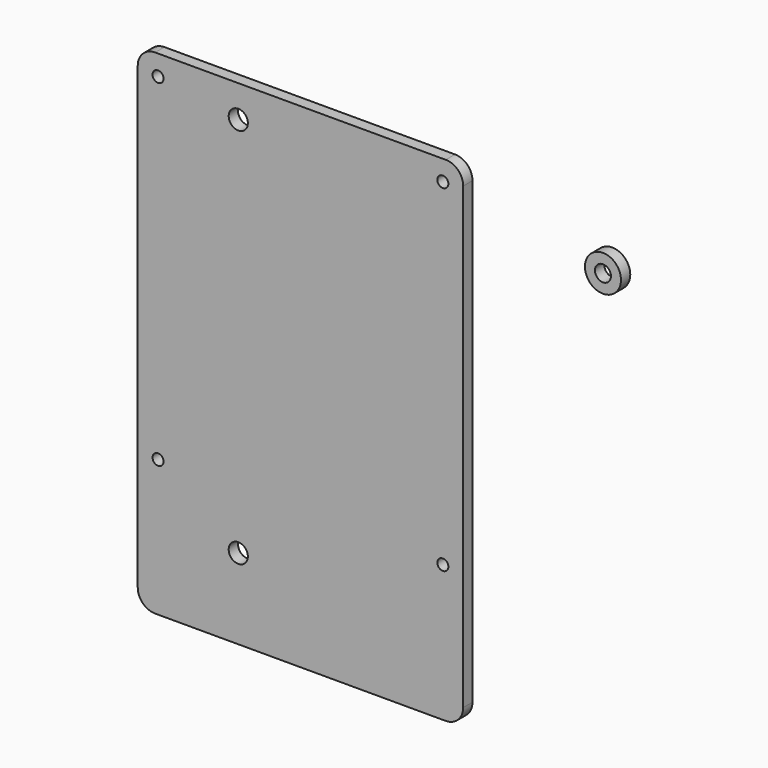
from build123d import *

# Parameters (mm, degrees)
F0_R     = 1.65
F0_R_2   = 0.95
F0_R_3   = 3.1
F0_R_4   = 1.375
F1_DEPTH = 2


with BuildPart() as f1:
    # F0 (on Front) → F1 (new body)
    with BuildSketch(Plane.XZ):
        with BuildLine():
            Line((25, 42.5), (-25, 42.5))
            ThreePointArc((-25, 42.5), (-27.12132, 41.62132), (-28, 39.5))
            Line((-28, 39.5), (-28, -39.5))
            ThreePointArc((-28, -39.5), (-27.12132, -41.62132), (-25, -42.5))
            Line((-25, -42.5), (25, -42.5))
            ThreePointArc((25, -42.5), (27.12132, -41.62132), (28, -39.5))
            Line((28, -39.5), (28, 39.5))
            ThreePointArc((28, 39.5), (27.12132, 41.62132), (25, 42.5))
        make_face()
        with Locations((-10.7, -28.676836)):
            Circle(F0_R, mode=Mode.SUBTRACT)
        with Locations((-24.5, -19)):
            Circle(F0_R_2, mode=Mode.SUBTRACT)
        with Locations((24.5, -19)):
            Circle(F0_R_2, mode=Mode.SUBTRACT)
        with Locations((-24.5, 39)):
            Circle(F0_R_2, mode=Mode.SUBTRACT)
        with Locations((-10.7, 36.973164)):
            Circle(F0_R, mode=Mode.SUBTRACT)
        with Locations((24.5, 39)):
            Circle(F0_R_2, mode=Mode.SUBTRACT)
        with Locations((52.049726, 34.105394)):
            Circle(F0_R_3)
        with Locations((52.049726, 34.105394)):
            Circle(F0_R_4, mode=Mode.SUBTRACT)
    extrude(amount=F1_DEPTH)


solid = f1.part
